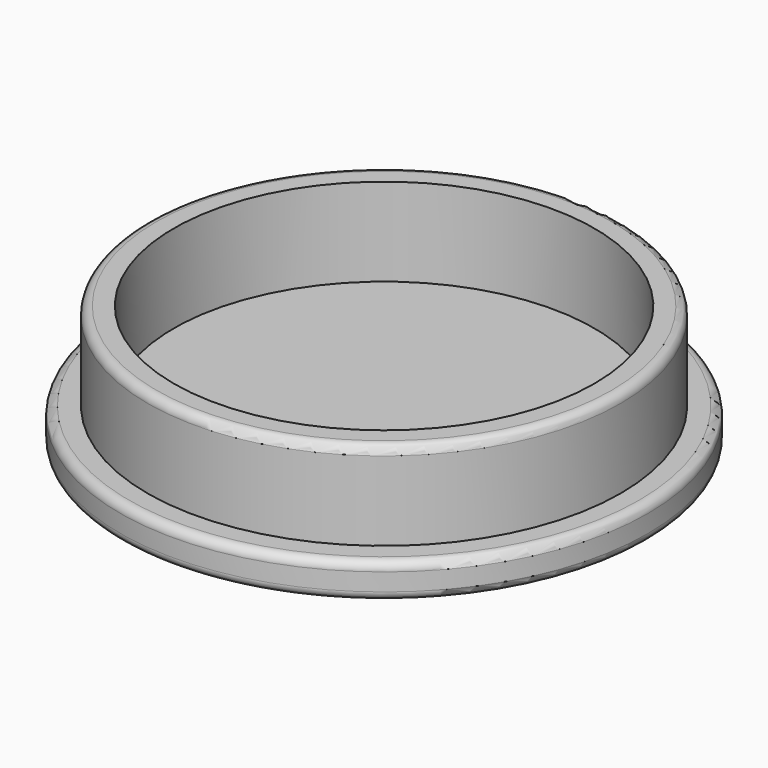
from build123d import *

# Parameters (mm, degrees)
F0_R     = 15
F1_DEPTH = 2
F2_R     = 13.45
F3_DEPTH = 5
F4_R     = 0.5
F6_DEPTH = 0.5
F7_R     = 0.1
F8_R     = 11.95
F9_DEPTH = 5


with BuildPart() as f1:
    # F0 (on Top) → F1 (new body)
    with BuildSketch(Plane.XY):
        Circle(F0_R)
    extrude(amount=F1_DEPTH)

    # F2 (on face) → F3 (join)
    with BuildSketch(Plane.XY.offset(2)):
        Circle(F2_R)
    extrude(amount=F3_DEPTH)

    # F4
    f4_edges = [f1.edges().sort_by_distance(p)[0] for p in [
        (-15, 0, 2),
        (-13.45, 0, 7),
        (-15, 0, 0),
    ]]
    fillet(f4_edges, radius=F4_R)

    # F5 (on face) → F6 (join)
    with BuildSketch(Plane(origin=(0, 0, 0), x_dir=(1, 0, 0), z_dir=(0, 0, -1))):
        Polygon((-6.25, -4.082904), (-0.25, -0.618802), (-0.25, 4), (-6.25, 0.535898), align=None)
        Polygon((0.25, 4), (0.25, -0.618802), (4.25, -2.928203), (4.25, 1.690599), align=None)
        Polygon((4, -3.072541), (0, -0.76314), (-6, -4.227241), (-2, -6.536642), align=None)
    extrude(amount=F6_DEPTH)

    # F7
    f7_edges = [f1.edges().sort_by_distance(p)[0] for p in [
        (2.25, 1.773503, -0.5),
        (2.25, -2.845299, -0.5),
        (4.25, 0.618802, -0.5),
        (0.25, -1.690599, -0.5),
        (-0.25, -1.690599, -0.5),
        (-3, 2.495191, -0.5),
        (2, 1.91784, -0.5),
        (1, 4.804592, -0.5),
        (-4, 5.381942, -0.5),
        (-3.25, 2.350853, -0.5),
        (-6.25, 1.773503, -0.5),
        (-3.25, -2.267949, -0.5),
    ]]
    fillet(f7_edges, radius=F7_R)

    # F8 (on face) → F9 (cut)
    with BuildSketch(Plane.XY.offset(7)):
        Circle(F8_R)
    extrude(amount=-F9_DEPTH, mode=Mode.SUBTRACT)


solid = f1.part
